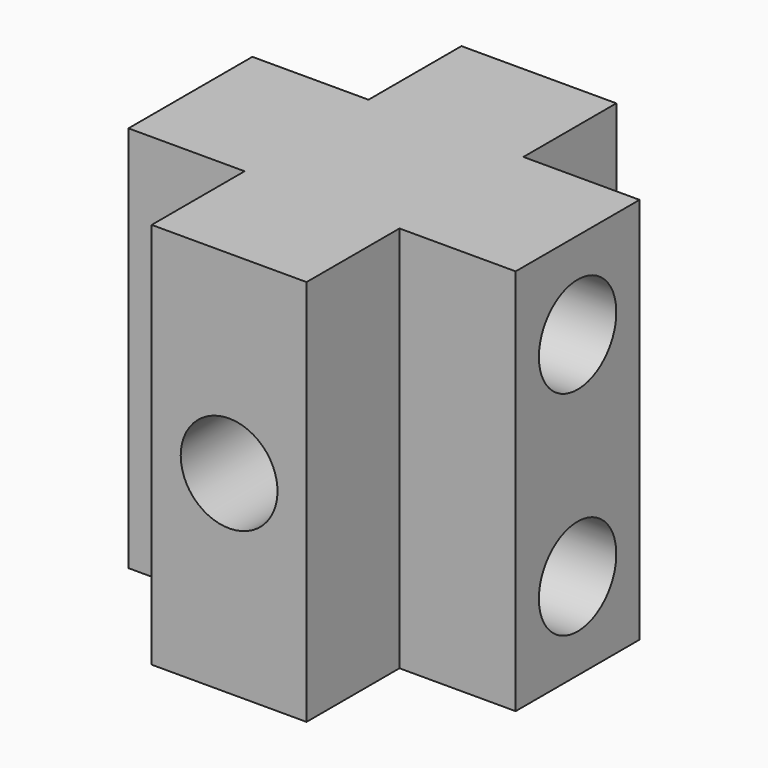
from build123d import *

# Parameters (mm, degrees)
F0_W      = 50
F0_H      = 50
F1_DEPTH  = 50
F2_R      = 6.25
F3_DEPTH  = 50.001
F4_R      = 6.25
F5_DEPTH  = 50.001
F6_R      = 6.25
F7_DEPTH  = 50.001
F8_W      = 15
F8_H      = 15
F9_DEPTH  = 50.001
F10_W     = 15
F10_H     = 15
F11_DEPTH = 50.001
F12_W     = 15
F12_H     = 15
F13_DEPTH = 50.001
F14_W     = 15
F14_H     = 15
F15_DEPTH = 50.001


with BuildPart() as f1:
    # F0 (on Top) → F1 (new body)
    with BuildSketch(Plane.XY):
        with Locations((-41.755149, -22.039188)):
            Rectangle(F0_W, F0_H)
    extrude(amount=F1_DEPTH)

    # F2 (on face) → F3 (cut, through all)
    with BuildSketch(Plane(origin=(-66.755149, 0, 0), x_dir=(0, -1, 0), z_dir=(-1, 0, 0))):
        with Locations((22.039188, 38.75)):
            Circle(F2_R)
    extrude(amount=-F3_DEPTH, mode=Mode.SUBTRACT)

    # F4 (on face) → F5 (cut, through all)
    with BuildSketch(Plane(origin=(-66.755149, 0, 0), x_dir=(0, -1, 0), z_dir=(-1, 0, 0))):
        with Locations((22.039188, 11.25)):
            Circle(F4_R)
    extrude(amount=-F5_DEPTH, mode=Mode.SUBTRACT)

    # F6 (on face) → F7 (cut, through all)
    with BuildSketch(Plane(origin=(0, 2.960812, 0), x_dir=(-1, 0, 0), z_dir=(0, 1, 0))):
        with Locations((41.755149, 25)):
            Circle(F6_R)
    extrude(amount=-F7_DEPTH, mode=Mode.SUBTRACT)

    # F8 (on face) → F9 (cut, through all)
    with BuildSketch(Plane.XY.offset(50)):
        with Locations((-59.255149, -39.539188)):
            Rectangle(F8_W, F8_H)
    extrude(amount=-F9_DEPTH, mode=Mode.SUBTRACT)

    # F10 (on face) → F11 (cut, through all)
    with BuildSketch(Plane.XY.offset(50)):
        with Locations((-59.255149, -4.539188)):
            Rectangle(F10_W, F10_H)
    extrude(amount=-F11_DEPTH, mode=Mode.SUBTRACT)

    # F12 (on face) → F13 (cut, through all)
    with BuildSketch(Plane.XY.offset(50)):
        with Locations((-24.255149, -4.539188)):
            Rectangle(F12_W, F12_H)
    extrude(amount=-F13_DEPTH, mode=Mode.SUBTRACT)

    # F14 (on face) → F15 (cut, through all)
    with BuildSketch(Plane.XY.offset(50)):
        with Locations((-24.255149, -39.539188)):
            Rectangle(F14_W, F14_H)
    extrude(amount=-F15_DEPTH, mode=Mode.SUBTRACT)


solid = f1.part
